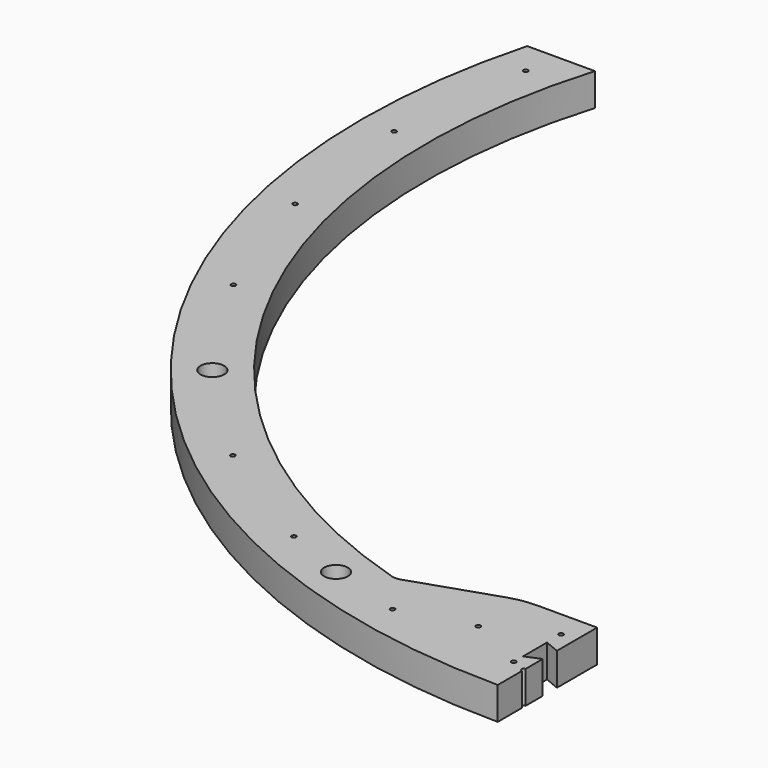
from build123d import *

# Parameters (mm, degrees)
F1_DEPTH  = 11
F2_R      = 28.523991
F3_R      = 5
F5_R      = 0.75
F5_R_2    = 4
F6_DEPTH  = 11.001
F7_R      = 4
F8_DEPTH  = 11.001
F10_DEPTH = 11.001


with BuildPart() as f1:
    # F0 (on Top) → F1 (new body)
    with BuildSketch(Plane.XY):
        with BuildLine():
            ThreePointArc((-59.119348, -199.42142), (-183.034682, -98.804378), (-199.158229, 60))
            Line((-199.158229, 60), (-222.036033, 60))
            ThreePointArc((-222.036033, 60), (0, -230), (222.036033, 60))
            Line((222.036033, 60), (199.158229, 60))
            ThreePointArc((199.158229, 60), (183.034682, -98.804378), (59.119348, -199.42142))
            Line((59.119348, -199.42142), (25, -188))
            Line((25, -188), (0, -188))
            Line((0, -188), (-25, -188))
            Line((-25, -188), (-59.119348, -199.42142))
        make_face()
    extrude(amount=F1_DEPTH)

    # F2
    f2_edges = [f1.edges().sort_by_distance(p)[0] for p in [
        (25, -188, 5.5),
        (-25, -188, 5.5),
    ]]
    fillet(f2_edges, radius=F2_R)

    # F3
    f3_edges = [f1.edges().sort_by_distance(p)[0] for p in [
        (59.119348, -199.42142, 5.5),
        (-59.119348, -199.42142, 5.5),
    ]]
    fillet(f3_edges, radius=F3_R)

    # F5 (on face) → F6 (cut, through all)
    with BuildSketch(Plane.XY.offset(11)):
        with Locations((0, -219)):
            Circle(F5_R)
        with Locations((48.732085, -213.509213)):
            Circle(F5_R)
        with Locations((95.020539, -197.312182)):
            Circle(F5_R)
        with Locations((136.544267, -171.221095)):
            Circle(F5_R)
        with Locations((171.221095, -136.544267)):
            Circle(F5_R)
        with Locations((197.312182, -95.020539)):
            Circle(F5_R)
        with Locations((213.509213, -48.732085)):
            Circle(F5_R)
        with Locations((219, 0)):
            Circle(F5_R)
        with Locations((213.509213, 48.732085)):
            Circle(F5_R)
        with Locations((197.312182, 95.020539)):
            Circle(F5_R)
        with Locations((171.221095, 136.544267)):
            Circle(F5_R)
        with Locations((136.544267, 171.221095)):
            Circle(F5_R)
        with Locations((95.020539, 197.312182)):
            Circle(F5_R)
        with Locations((48.732085, 213.509213)):
            Circle(F5_R)
        with Locations((0, 219)):
            Circle(F5_R)
        with Locations((-48.732085, 213.509213)):
            Circle(F5_R)
        with Locations((-95.020539, 197.312182)):
            Circle(F5_R)
        with Locations((-136.544267, 171.221095)):
            Circle(F5_R)
        with Locations((-171.221095, 136.544267)):
            Circle(F5_R)
        with Locations((-197.312182, 95.020539)):
            Circle(F5_R)
        with Locations((-213.509213, 48.732085)):
            Circle(F5_R)
        with Locations((-219, 0)):
            Circle(F5_R)
        with Locations((-213.509213, -48.732085)):
            Circle(F5_R)
        with Locations((-197.312182, -95.020539)):
            Circle(F5_R)
        with Locations((-171.221095, -136.544267)):
            Circle(F5_R)
        with Locations((-136.544267, -171.221095)):
            Circle(F5_R)
        with Locations((-95.020539, -197.312182)):
            Circle(F5_R)
        with Locations((-48.732085, -213.509213)):
            Circle(F5_R)
        with Locations((-5, -197)):
            Circle(F5_R)
        with Locations((5, -197)):
            Circle(F5_R)
        with Locations((0, -208)):
            Circle(F5_R)
        with Locations((-5, -217)):
            Circle(F5_R)
        with Locations((-25, -207)):
            Circle(F5_R)
        with Locations((5, -217)):
            Circle(F5_R)
        with Locations((25, -207)):
            Circle(F5_R)
        with Locations((-73.684961, -206.23173)):
            Circle(F5_R_2)
    extrude(amount=-F6_DEPTH, mode=Mode.SUBTRACT)

    # F7 (on face) → F8 (cut, through all)
    with BuildSketch(Plane.XY.offset(11)):
        with Locations((-171.221095, -136.544267)):
            Circle(F7_R)
        with Locations((171.221095, -136.544267)):
            Circle(F7_R)
    extrude(amount=-F8_DEPTH, mode=Mode.SUBTRACT)

    # F9 (on face) → F10 (cut, through all)
    with BuildSketch(Plane.XY.offset(11)):
        Polygon((0, 85.640151), (0, -188), (0, -205), (-5, -202.917908), (-5, -213.082092), (0, -211), (0, -251.474887), (263.787508, -251.474887), (263.787508, 85.640151), align=None)
    extrude(amount=-F10_DEPTH, mode=Mode.SUBTRACT)


solid = f1.part
